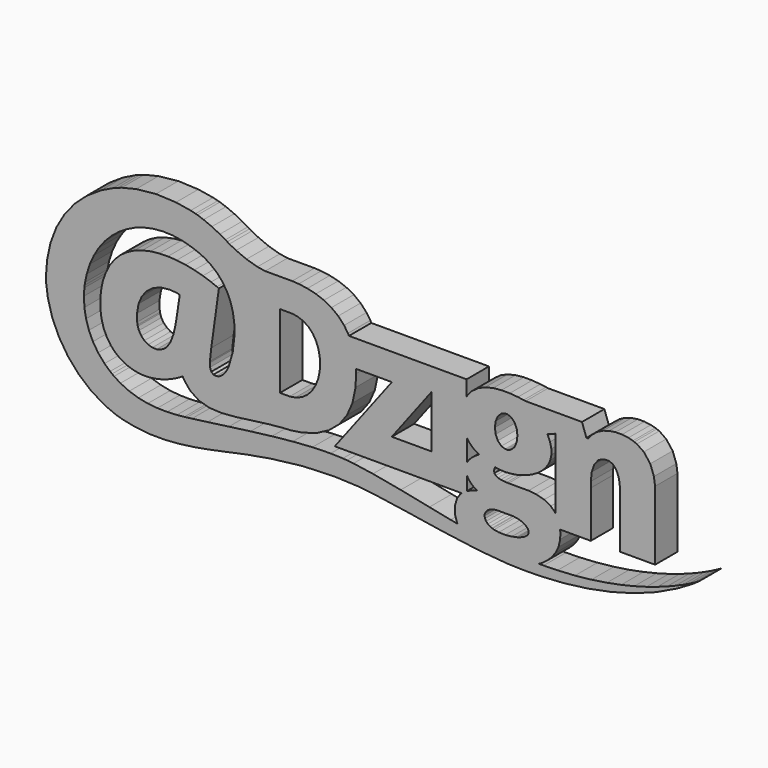
from build123d import *

# Parameters (mm, degrees)
F1_DEPTH = 3


with BuildPart() as f1:
    # F0 (on Front) → F1 (new body)
    with BuildSketch(Plane.XZ):
        Polygon((23.069274, -0.770891), (23.03704, -0.546999), (26.331037, -0.546999), (26.331037, 4.235778), (26.331037, 4.443723), (26.340583, 5.067557), (26.438241, 5.983776), (26.726587, 6.821942), (27.135354, 7.321905), (27.310257, 7.417947), (27.433761, 7.486454), (27.841279, 7.625084), (28.29021, 7.633014), (28.659914, 7.476909), (28.954723, 7.189737), (29.177352, 6.805201), (29.332356, 6.357812), (29.422378, 5.881052), (29.451895, 5.526914), (29.451895, 5.408624), (29.451895, -0.557359), (33.225223, -0.557359), (33.225223, 6.551071), (33.225223, 6.844705), (33.099663, 7.725385), (32.706096, 8.802262), (32.016104, 9.691827), (31.274421, 10.202143), (31.001861, 10.303692), (30.847004, 10.361039), (30.365324, 10.48535), (29.687228, 10.576546), (28.99217, 10.573389), (28.302913, 10.472207), (27.644055, 10.270283), (27.039385, 9.962698), (26.511961, 9.547176), (26.17574, 9.161539), (26.086453, 9.018944), (25.862208, 9.018944), (25.392864, 10.365004), (19.345289, 10.365004), (19.14175, 10.398853), (18.527462, 10.480945), (17.655886, 10.551801), (16.761107, 10.555106), (15.873965, 10.466993), (15.025446, 10.264629), (14.247049, 9.923635), (13.568659, 9.420882), (13.133972, 8.920112), (13.022437, 8.733314), (13.022437, 10.365004), (0.417779, 10.365004), (0.307051, 10.580218), (-0.10289, 11.184446), (-0.735095, 11.866508), (-1.462093, 12.419411), (-2.265602, 12.852409), (-3.129321, 13.173871), (-4.035113, 13.392609), (-4.966532, 13.517655), (-5.670474, 13.557159), (-5.905073, 13.557159), (-8.291736, 13.557159), (-8.567821, 13.557159), (-9.395194, 13.68896), (-10.562385, 14.028779), (-11.677811, 14.495259), (-12.39688, 14.86533), (-12.625971, 15.005134), (-12.820699, 15.123866), (-13.417805, 15.458178), (-14.279615, 15.889927), (-15.165876, 16.264403), (-15.812472, 16.487474), (-16.031945, 16.545261), (-16.545785, 16.677576), (-18.1238, 16.933615), (-20.260592, 17.027234), (-22.383874, 16.803429), (-23.939126, 16.424107), (-24.435491, 16.239365), (-24.873268, 16.077165), (-26.138874, 15.461335), (-27.65347, 14.470147), (-28.965672, 13.287095), (-30.062374, 11.930609), (-30.930822, 10.421616), (-31.557446, 8.779059), (-31.929125, 7.023572), (-32.04146, 5.636027), (-32.033097, 5.174319), (-32.024726, 4.739706), (-31.848253, 3.437483), (-31.380576, 1.746391), (-30.656345, 0.13938), (-29.703053, -1.346124), (-28.546604, -2.672285), (-27.214466, -3.801647), (-25.733338, -4.696785), (-24.541446, -5.201903), (-24.129521, -5.319819), (-23.733971, -5.432162), (-22.519346, -5.674764), (-20.915485, -5.842874), (-19.316471, -5.852435), (-17.721495, -5.734122), (-16.128281, -5.516213), (-14.536902, -5.229394), (-12.945084, -4.902336), (-11.749916, -4.64778), (-11.351209, -4.564918), (-10.502983, -4.389634), (-7.941123, -3.941878), (-4.56173, -3.536334), (-1.163319, -3.407661), (1.442449, -3.519211), (2.30448, -3.61681), (3.3163, -3.731539), (6.341483, -4.170139), (10.372098, -4.801947), (14.412332, -5.346113), (17.460644, -5.60904), (18.478413, -5.63573), (19.096372, -5.65206), (20.952307, -5.629357), (23.467614, -5.472796), (25.993642, -5.154102), (28.500578, -4.661724), (30.958833, -3.984105), (33.338667, -3.108888), (35.60983, -2.024932), (37.229625, -1.074834), (37.743098, -0.720293), (37.763364, -0.704756), (37.966903, -0.562139), (37.987609, -0.546999), (37.913595, -0.59242), (37.693608, -0.72149), (37.330366, -0.921468), (36.826806, -1.180804), (36.184615, -1.487544), (35.407833, -1.828949), (34.497929, -2.19305), (33.458206, -2.568709), (32.291455, -2.942767), (30.999511, -3.303292), (29.586046, -3.63872), (28.053189, -3.93709), (26.40395, -4.185669), (24.640753, -4.372511), (22.766021, -4.486036), (21.278542, -4.518314), (20.783425, -4.513931), (20.826894, -4.492013), (20.953922, -4.420708), (21.274577, -4.216743), (21.685326, -3.899246), (22.128237, -3.467423), (22.543465, -2.918074), (22.872857, -2.249222), (23.056938, -1.459664), align=None)
        Polygon((-17.969604, 8.407887), (-17.714592, 8.345694), (-18.040828, 6.173437), (-18.076366, 5.955506), (-18.183936, 5.300613), (-18.395479, 4.367286), (-18.741245, 3.493213), (-19.120862, 2.938327), (-19.285338, 2.798082), (-19.38417, 2.714816), (-19.727954, 2.520823), (-20.192085, 2.396878), (-20.656215, 2.411637), (-21.099566, 2.549459), (-21.499889, 2.794852), (-21.836918, 3.132321), (-22.08789, 3.546595), (-22.212202, 3.900732), (-22.232468, 4.021886), (-22.275129, 4.284387), (-22.295027, 5.088704), (-22.136132, 6.048318), (-21.777589, 6.879656), (-21.239811, 7.560542), (-20.543358, 8.06961), (-19.710111, 8.384757), (-18.760336, 8.483957), align=None, mode=Mode.SUBTRACT)
        Polygon((-16.413103, -2.91449), (-16.970045, -2.984209), (-17.231444, -3.016473), (-18.018212, -3.091368), (-19.068655, -3.143949), (-20.113224, -3.126818), (-21.144136, -3.024836), (-22.1528, -2.823669), (-23.131578, -2.508154), (-24.071735, -2.063577), (-24.754163, -1.637335), (-24.965691, -1.475194), (-25.179605, -1.31306), (-25.775566, -0.766501), (-26.460351, 0.027845), (-27.019261, 0.895881), (-27.451891, 1.826867), (-27.757038, 2.808068), (-27.934709, 3.828627), (-27.98331, 4.876353), (-27.938689, 5.675897), (-27.902842, 5.939206), (-27.864601, 6.220063), (-27.685734, 7.053457), (-27.353492, 8.100743), (-26.914099, 9.075924), (-26.375903, 9.974226), (-25.747686, 10.790071), (-25.037392, 11.51751), (-24.253392, 12.152138), (-23.404506, 12.687933), (-22.498199, 13.119756), (-21.543357, 13.442393), (-20.547764, 13.64997), (-19.52045, 13.737935), (-18.469493, 13.700488), (-17.403043, 13.532047), (-16.329543, 13.227766), (-15.518031, 12.908654), (-15.257072, 12.781846), (-15.04039, 12.677506), (-14.422944, 12.293484), (-13.708281, 11.70115), (-13.111909, 11.01674), (-12.632286, 10.253101), (-12.268162, 9.422498), (-12.01763, 8.537265), (-11.878927, 7.609958), (-11.844343, 6.892138), (-11.850658, 6.653061), (-11.858661, 6.341951), (-12.041935, 4.765185), (-12.480513, 3.244223), (-12.615544, 2.961016), (-12.666943, 2.853079), (-12.86615, 2.550708), (-13.169696, 2.232403), (-13.49762, 2.021227), (-13.820698, 1.932821), (-14.109485, 1.982238), (-14.335273, 2.185409), (-14.46913, 2.557463), (-14.494242, 2.976509), (-14.481906, 3.113964), (-14.339238, 4.429772), (-13.523393, 10.303692), (-13.729796, 10.395329), (-14.360311, 10.643511), (-15.241946, 10.939054), (-16.157064, 11.184446), (-17.093989, 11.372492), (-18.042516, 11.497171), (-18.990236, 11.552168), (-19.926794, 11.530213), (-20.84059, 11.425947), (-21.720536, 11.23188), (-22.555178, 10.941918), (-23.333575, 10.549892), (-24.044273, 10.048755), (-24.676037, 9.432484), (-25.217456, 8.694251), (-25.658046, 7.827815), (-25.92217, 7.081286), (-25.985508, 6.826348), (-26.036099, 6.623617), (-26.148038, 6.00529), (-26.230496, 5.153613), (-26.222933, 4.29195), (-26.115767, 3.44064), (-25.898658, 2.620022), (-25.56124, 1.849996), (-25.09396, 1.15123), (-24.652173, 0.67917), (-24.486449, 0.544123), (-24.347452, 0.430987), (-23.896098, 0.131413), (-23.291722, -0.170143), (-22.681032, -0.372118), (-22.071149, -0.486451), (-21.468903, -0.524692), (-20.881635, -0.498008), (-20.316396, -0.418722), (-19.780161, -0.29842), (-19.280271, -0.14824), (-18.824071, 0.019467), (-18.418168, 0.193562), (-18.070345, 0.362069), (-17.787138, 0.513445), (-17.576477, 0.636141), (-17.444602, 0.718203), (-17.39871, 0.748088), (-17.24613, 0.458074), (-16.616422, -0.323517), (-15.648657, -0.976442), (-14.501364, -1.291149), (-13.179168, -1.347321), (-11.688091, -1.225822), (-10.033346, -1.00712), (-8.219631, -0.770891), (-6.744855, -0.625484), (-6.252088, -0.597986), (-5.825845, -0.574093), (-4.5538, -0.378492), (-3.041649, 0.076439), (-1.733405, 0.763221), (-0.645881, 1.676268), (0.203446, 2.811226), (0.797763, 4.163306), (1.119665, 5.727663), (1.179435, 7.058523), (1.151973, 7.499231), (5.016864, 7.499231), (-1.102008, -0.546999), (12.502649, -0.546999), (12.350803, -0.680452), (12.001071, -1.201121), (11.763976, -1.985899), (11.789455, -2.811318), (11.972728, -3.409666), (12.073984, -3.586132), (11.313136, -3.443523), (9.035951, -2.984606), (5.966639, -2.36235), (2.98287, -1.816202), (0.90056, -1.511048), (0.203446, -1.444516), (-0.2308, -1.403492), (-1.540953, -1.363658), (-3.492563, -1.411055), (-5.605124, -1.56125), (-7.832819, -1.789901), (-10.129314, -2.071155), (-12.448572, -2.380678), (-14.744039, -2.693395), align=None, mode=Mode.SUBTRACT)
        Polygon((15.281632, -1.254495), (15.416223, -1.161287), (15.813021, -0.994373), (16.236473, -0.924258), (16.377893, -0.924258), (17.856635, -0.924258), (18.001653, -0.924258), (18.436633, -0.978829), (18.945333, -1.12743), (19.347345, -1.34851), (19.607863, -1.619007), (19.691129, -1.916584), (19.562852, -2.218948), (19.187201, -2.504182), (18.698032, -2.704549), (18.529444, -2.749963), (18.366951, -2.793388), (17.870145, -2.891383), (17.171857, -2.963892), (16.471512, -2.944772), (15.967144, -2.861116), (15.806633, -2.810922), (15.737685, -2.790193), (15.540167, -2.699768), (15.308653, -2.542011), (15.124278, -2.34801), (14.999526, -2.128919), (14.946952, -1.894673), (14.97882, -1.656455), (15.108271, -1.424603), align=None, mode=Mode.SUBTRACT)
        Polygon((13.04285, -0.179711), (13.04285, 1.370328), (13.080665, 1.277113), (13.23677, 1.012997), (13.502868, 0.697497), (13.824404, 0.435371), (14.09131, 0.278414), (14.185297, 0.238176), (14.075377, 0.212682), (13.571816, 0.056121), (13.124427, -0.136286), align=None, mode=Mode.SUBTRACT)
        Polygon((9.269522, 7.958148), (9.269522, 2.339165), (5.006952, 2.339165), align=None, mode=Mode.SUBTRACT)
        Polygon((13.04285, 4.878262), (13.102472, 4.781119), (13.31049, 4.505842), (13.622774, 4.185187), (13.979335, 3.917914), (14.275244, 3.750941), (14.378923, 3.705564), (14.27965, 3.646161), (13.986457, 3.462154), (13.603757, 3.180489), (13.274658, 2.845516), (13.083381, 2.548725), (13.04285, 2.441155), align=None, mode=Mode.SUBTRACT)
        Polygon((16.040497, 2.997289), (16.08191, 3.073359), (16.21261, 3.04509), (16.612932, 2.992884), (17.180227, 2.971737), (17.771019, 3.008817), (18.372091, 3.101996), (18.970519, 3.249437), (19.553674, 3.450185), (20.108193, 3.702333), (20.621299, 4.003897), (21.080216, 4.353702), (21.471434, 4.750133), (21.782543, 5.19106), (22.000401, 5.67509), (22.112376, 6.200458), (22.104813, 6.765771), (21.965376, 7.369265), (21.764627, 7.856599), (21.680994, 8.009106), (22.55771, 8.335782), (22.55771, 0.809429), (22.451755, 0.958823), (22.037922, 1.338858), (21.336402, 1.718489), (20.455134, 1.946772), (19.660804, 2.022843), (19.396247, 2.022843), (17.580991, 2.022843), (17.514393, 2.022843), (17.315626, 2.027248), (17.008042, 2.04678), (16.690618, 2.09179), (16.395442, 2.173441), (16.154382, 2.302085), (16.000259, 2.487781), (15.965602, 2.74147), align=None, mode=Mode.SUBTRACT)
        Polygon((-6.975855, 2.58375), (-6.975855, 10.487259), (-5.864468, 10.487259), (-5.675981, 10.487259), (-5.109567, 10.403626), (-4.457831, 10.166237), (-3.908893, 9.796534), (-3.461504, 9.316102), (-3.11537, 8.746017), (-2.868729, 8.108232), (-2.721362, 7.423821), (-2.672313, 6.891698), (-2.672313, 6.713931), (-2.672313, 6.523976), (-2.727309, 5.953891), (-2.891492, 5.212574), (-3.163905, 4.515461), (-3.544402, 3.888029), (-4.031956, 3.355759), (-4.625905, 2.943908), (-5.325515, 2.678176), (-5.92901, 2.58375), (-6.129685, 2.58375), align=None, mode=Mode.SUBTRACT)
        Polygon((17.151591, 8.48873), (17.285375, 8.48873), (17.41556, 8.48873), (17.806411, 8.34496), (18.177289, 7.964463), (18.398377, 7.427126), (18.470923, 6.811222), (18.394853, 6.195392), (18.171342, 5.657908), (17.801271, 5.277557), (17.414092, 5.133274), (17.285375, 5.133274), (17.151591, 5.132539), (16.749947, 5.274694), (16.36754, 5.653576), (16.138081, 6.190986), (16.061571, 6.807551), (16.138081, 7.424703), (16.36754, 7.963214), (16.749947, 8.34452), align=None, mode=Mode.SUBTRACT)
    extrude(amount=F1_DEPTH)


solid = f1.part
